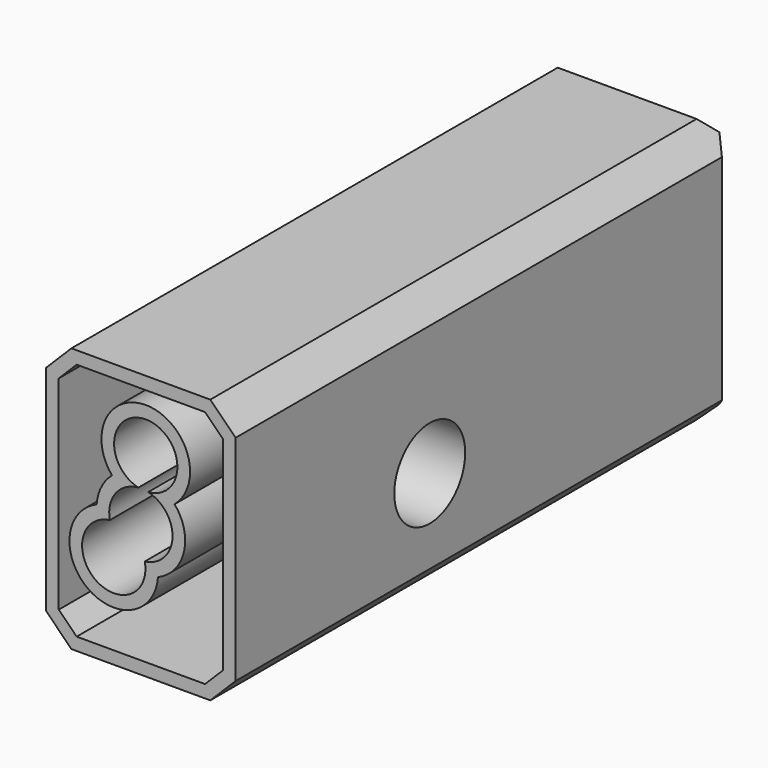
from build123d import *

# Parameters (mm, degrees)
F0_W     = 38.0188077688
F0_H     = 53.1056523323
F1_DEPTH = 127
F2_D     = 12.7
F4_D     = 17.78
F5_SIZE  = 5.08
F6_SIZE  = 5.08
F7_T     = -2.54


with BuildPart() as f1:
    # F0 (on Front) → F1 (new body)
    with BuildSketch(Plane.XZ):
        with Locations((41.3379147649, -12.9746794701)):
            Rectangle(F0_W, F0_H)
    extrude(amount=F1_DEPTH)

    # F2 (through all)
    with Locations(Plane(origin=(0, 0, 0), x_dir=(1, 0, 0), z_dir=(0, 1, 0))):
        with Locations((35.9038263559, 20.5519068986), (42.3191934824, 0.4664044827), (41.3379147649, 12.9746794701)):
            Hole(F2_D / 2)

    # F4 (through all)
    with Locations(Plane(origin=(0, 0, 0), x_dir=(0, 1, 0), z_dir=(-1, 0, 0))):
        with Locations((-78.3368498087, 17.5524428487), (-245.0540214777, 13.2584674284)):
            Hole(F4_D / 2)

    # F5
    f5_edges = [f1.edges().sort_by_distance(p)[0] for p in [
        (60.347319, -63.5, 13.578147),
        (22.328511, -63.5, 13.578147),
        (60.347319, -63.5, -39.527506),
        (22.328511, -63.5, -39.527506),
    ]]
    chamfer(f5_edges, length=F5_SIZE)

    # F6 (call 1 of 4: OpenCascade refuses the feature's edges together)
    f6_edges = [f1.edges().sort_by_distance(p)[0] for p in [
        (22.328511, 0, -12.974679),
    ]]
    chamfer(f6_edges, length=F6_SIZE)

    # F6#2 (call 2 of 4)
    f6_2_edges = [f1.edges().sort_by_distance(p)[0] for p in [
        (41.337915, 0, -39.527506),
    ]]
    chamfer(f6_2_edges, length=F6_SIZE)

    # F6#3 (call 3 of 4)
    f6_3_edges = [f1.edges().sort_by_distance(p)[0] for p in [
        (60.347319, 0, -12.974679),
    ]]
    chamfer(f6_3_edges, length=F6_SIZE)

    # F6#4 (call 4 of 4)
    f6_4_edges = [f1.edges().sort_by_distance(p)[0] for p in [
        (41.337915, 0, 13.578147),
    ]]
    chamfer(f6_4_edges, length=F6_SIZE)

    # F7
    f7_openings = [f1.faces().sort_by_distance(p)[0] for p in [
        (41.337915, -127, 12.925028),
    ]]
    offset(amount=F7_T, openings=f7_openings)


solid = f1.part
